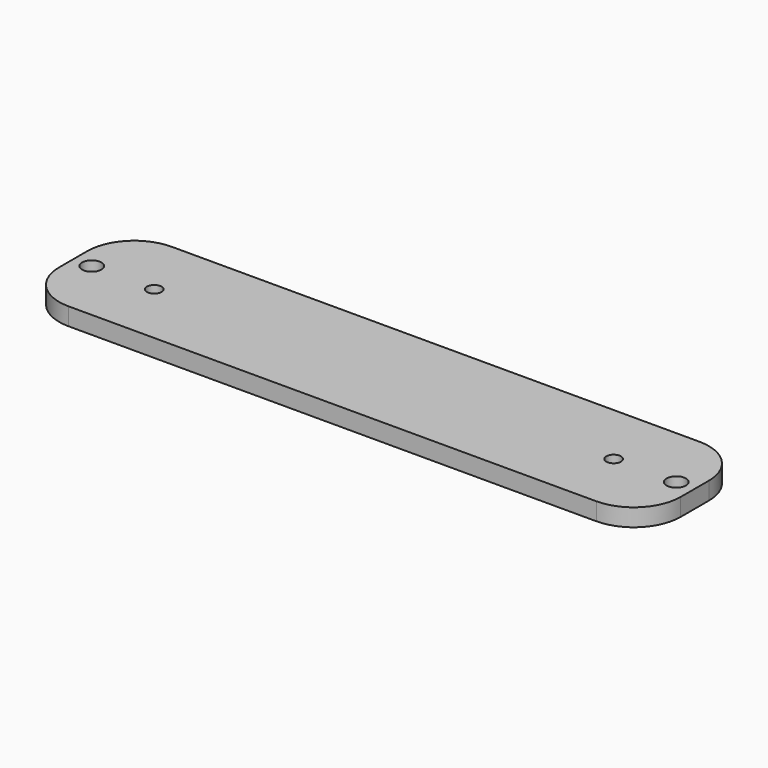
from build123d import *

# Parameters (mm, degrees)
SKETCH086_W     = 106
SKETCH086_H     = 22
PAD005_DEPTH    = 3
SKETCH087_R     = 1.25
POCKET003_DEPTH = 3
FILLET005_R     = 8
SKETCH088_R     = 1.65
POCKET004_DEPTH = 3


with BuildPart() as part:
    # Sketch086 → Pad005 (new body)
    with BuildSketch(Plane.XY):
        with Locations((0.609999, 10.86)):
            Rectangle(SKETCH086_W, SKETCH086_H)
    extrude(amount=PAD005_DEPTH)

    # Sketch087 → Pocket003 (cut)
    with BuildSketch(Plane.XY.offset(3)):
        with Locations((-38.549999, 10.83)):
            Circle(SKETCH087_R)
        with Locations((39.800001, 10.823599)):
            Circle(SKETCH087_R)
    extrude(amount=-POCKET003_DEPTH, mode=Mode.SUBTRACT)

    # Fillet005
    fillet005_edges = [part.edges().sort_by_distance(p)[0] for p in [
        (-52.390001, 21.86, 1.5),
        (-52.390001, -0.14, 1.5),
        (53.609999, 21.86, 1.5),
        (53.609999, -0.14, 1.5),
    ]]
    fillet(fillet005_edges, radius=FILLET005_R)

    # Sketch088 (on Face5 of Fillet005) → Pocket004 (cut)
    with BuildSketch(Plane.XY.offset(3)):
        with Locations((-49.240092, 10.86)):
            Circle(SKETCH088_R)
        with Locations((50.460174, 10.86)):
            Circle(SKETCH088_R)
    extrude(amount=-POCKET004_DEPTH, mode=Mode.SUBTRACT)


with BuildPart() as part_1:
    # Body008 placement: moved
    add(part.part.moved(Location((46.37, -59.87, 16))))


solid = part_1.part
